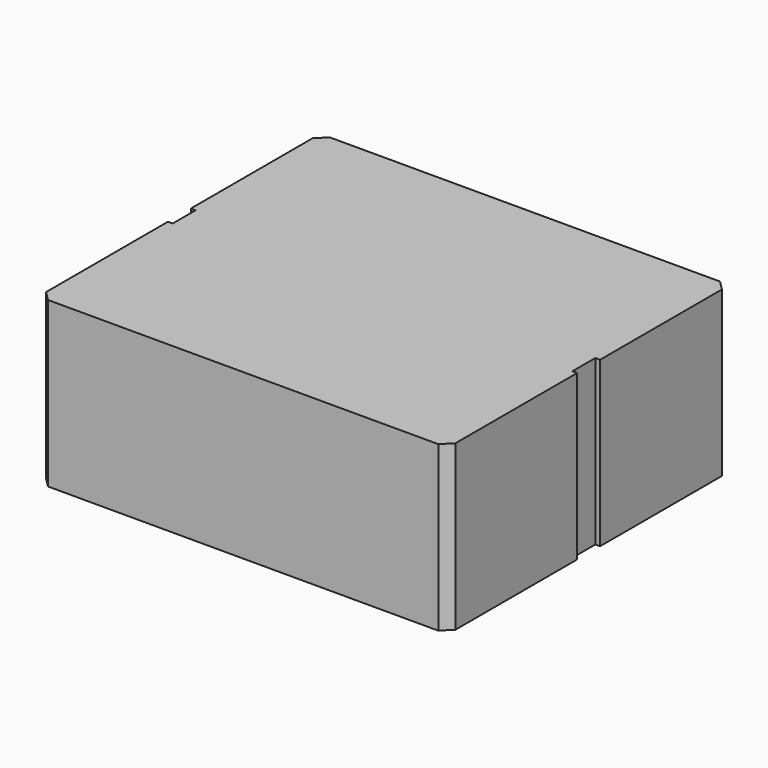
from build123d import *

# Parameters (mm, degrees)
F1_DEPTH = 34.5
F2_SIZE  = 2


with BuildPart() as f1:
    # F0 (on Top) → F1 (new body)
    with BuildSketch(Plane.XY):
        Polygon((-43, -37), (43, -37), (43, -3.00348), (42, -3.00348), (42, 2.99652), (43, 2.99652), (43, 37), (-43, 37), (-43, 2.99652), (-42, 2.99652), (-42, -3.00348), (-43, -3.00348), align=None)
    extrude(amount=F1_DEPTH)

    # F2
    f2_edges = [f1.edges().sort_by_distance(p)[0] for p in [
        (43, 37, 17.25),
        (43, -37, 17.25),
        (-43, 37, 17.25),
        (-43, -37, 17.25),
    ]]
    chamfer(f2_edges, length=F2_SIZE)


solid = f1.part
